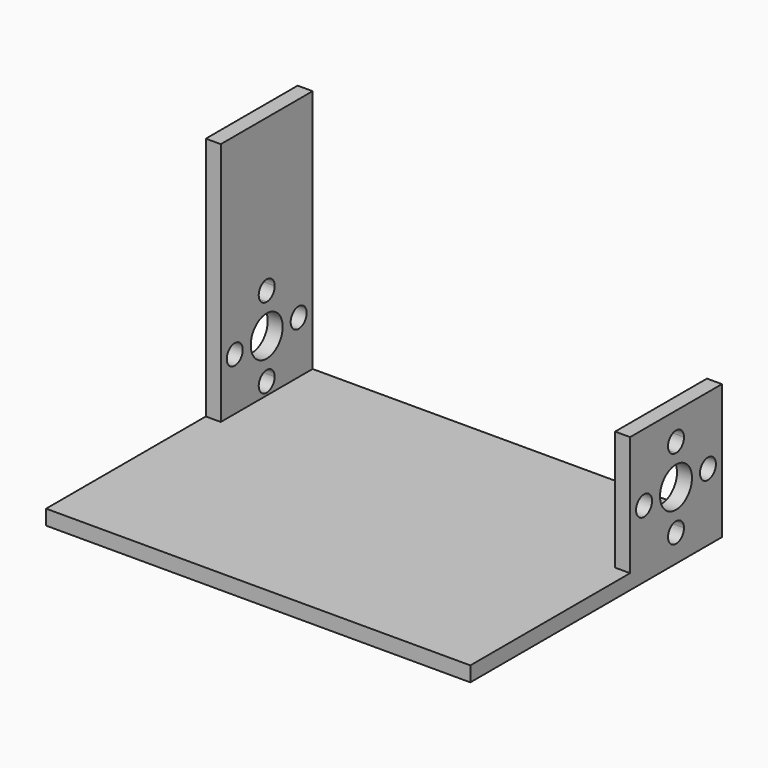
from build123d import *

# Parameters (mm, degrees)
F0_W      = 85
F0_H      = 23
F0_H_2    = 40
F1_DEPTH  = 3
F2_W      = 3
F2_H      = 23
F3_DEPTH  = 24
F4_W      = 3
F4_H      = 23
F5_DEPTH  = 25
F6_R      = 4
F7_DEPTH  = 200
F8_R      = 2
F9_DEPTH  = 250
F11_DEPTH = 250


with BuildPart() as f1:
    # F0 (on Top) → F1 (new body)
    with BuildSketch(Plane.XY):
        with Locations((42.5, 11.5)):
            Rectangle(F0_W, F0_H)
        with Locations((42.5, -20)):
            Rectangle(F0_W, F0_H_2)
    extrude(amount=F1_DEPTH)

    # F2 (on face) → F3 (join)
    with BuildSketch(Plane.XY.offset(3)):
        with Locations((1.5, 11.5)):
            Rectangle(F2_W, F2_H)
        with Locations((83.5, 11.5)):
            Rectangle(F2_W, F2_H)
    extrude(amount=F3_DEPTH)

    # F4 (on face) → F5 (join)
    with BuildSketch(Plane.XY.offset(27)):
        with Locations((1.5, 11.5)):
            Rectangle(F4_W, F4_H)
    extrude(amount=F5_DEPTH)

    # F6 (on face) → F7 (cut)
    with BuildSketch(Plane.YZ.offset(85)):
        with Locations((11.5, 13.5)):
            Circle(F6_R)
    extrude(amount=-F7_DEPTH, mode=Mode.SUBTRACT)

    # F8 (on face) → F9 (cut)
    with BuildSketch(Plane(origin=(0, 0, 0), x_dir=(0, -1, 0), z_dir=(-1, 0, 0))):
        with BuildLine():
            ThreePointArc((-1.5, 13.5), (-3.5, 15.5), (-5.5, 13.5))
            ThreePointArc((-5.5, 13.5), (-3.5, 11.5), (-1.5, 13.5))
        make_face()
        with Locations((-19.5, 13.5)):
            Circle(F8_R)
    extrude(amount=-F9_DEPTH, mode=Mode.SUBTRACT)

    # F10 (on face) → F11 (cut)
    with BuildSketch(Plane.YZ.offset(85)):
        with BuildLine():
            ThreePointArc((13.5, 21.5), (10.085786, 22.914214), (11.5, 19.5))
            ThreePointArc((11.5, 19.5), (12.914214, 20.085786), (13.5, 21.5))
        make_face()
        with BuildLine():
            ThreePointArc((13.5, 5.5), (12.914214, 6.914214), (11.5, 7.5))
            ThreePointArc((11.5, 7.5), (10.085786, 4.085786), (13.5, 5.5))
        make_face()
    extrude(amount=-F11_DEPTH, mode=Mode.SUBTRACT)


solid = f1.part
